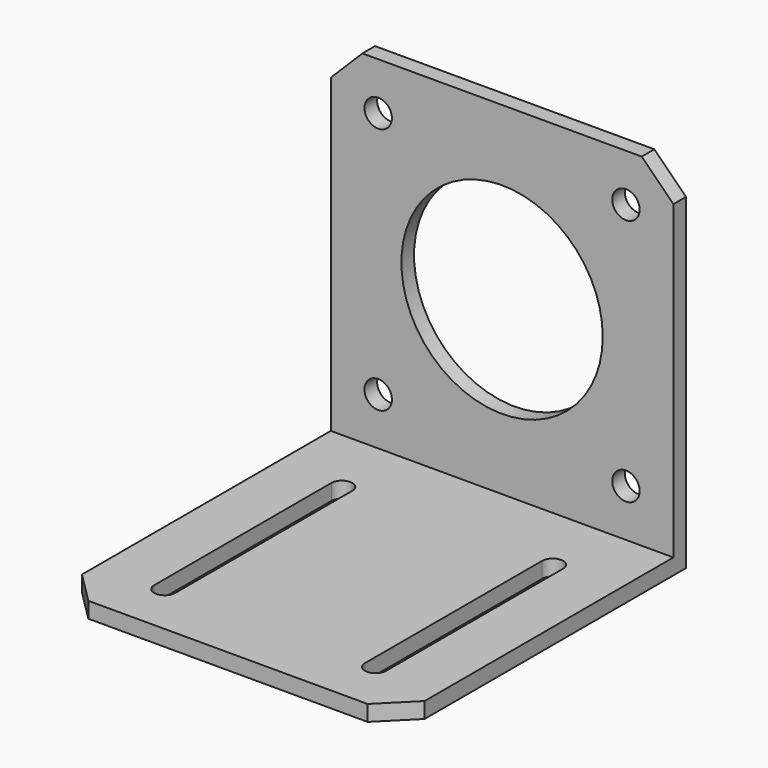
from build123d import *

# Parameters (mm, degrees)
PAD005_DEPTH  = 3
SKETCH006_W   = 65
SKETCH006_H   = 3
PAD006_DEPTH  = 65
SKETCH007_R   = 2.6
SKETCH007_R_2 = 19.1
POCKET_DEPTH  = 3


with BuildPart() as part:
    # Sketch005 → Pad005 (new body)
    with BuildSketch(Plane.XY):
        Polygon((0, 68.000006), (65, 68.000006), (65, 6.000006), (59, 0), (6, 0), (0, 6.000006), align=None)
        with BuildLine():
            ThreePointArc((50.5, 10), (52.5, 8), (54.5, 10))
            Line((54.5, 10), (54.5, 52))
            ThreePointArc((54.5, 52), (52.5, 54), (50.5, 52))
            Line((50.5, 10), (50.5, 52))
        make_face(mode=Mode.SUBTRACT)
        with BuildLine():
            ThreePointArc((10.5, 10), (12.5, 8), (14.5, 10))
            Line((14.5, 10), (14.5, 52))
            ThreePointArc((14.5, 52), (12.5, 54), (10.5, 52))
            Line((10.5, 10), (10.5, 52))
        make_face(mode=Mode.SUBTRACT)
    extrude(amount=PAD005_DEPTH)

    # Sketch006 (on Face16 of Pad005) → Pad006 (join)
    with BuildSketch(Plane.XY.offset(3)):
        with Locations((32.5, 66.5)):
            Rectangle(SKETCH006_W, SKETCH006_H)
    extrude(amount=PAD006_DEPTH)

    # Sketch007 (on Face21 of Pad006) → Pocket (cut)
    with BuildSketch(Plane.XZ.offset(-65)):
        with Locations((9, 59)):
            Circle(SKETCH007_R)
        with Locations((32.5, 35.5)):
            Circle(SKETCH007_R_2)
        with Locations((56, 12)):
            Circle(SKETCH007_R)
        with Locations((56, 59)):
            Circle(SKETCH007_R)
        with Locations((56, 12)):
            Circle(SKETCH007_R)
        with Locations((9, 12)):
            Circle(SKETCH007_R)
        with Locations((9, 12)):
            Circle(SKETCH007_R)
        Polygon((0, 68), (6, 68), (0, 62), align=None)
        Polygon((65, 68), (59, 68), (65, 62), align=None)
    extrude(amount=-POCKET_DEPTH, mode=Mode.SUBTRACT)


with BuildPart() as part_1:
    # Body005 placement: moved
    add(part.part.moved(Location((12, 0, 0))))


solid = part_1.part
